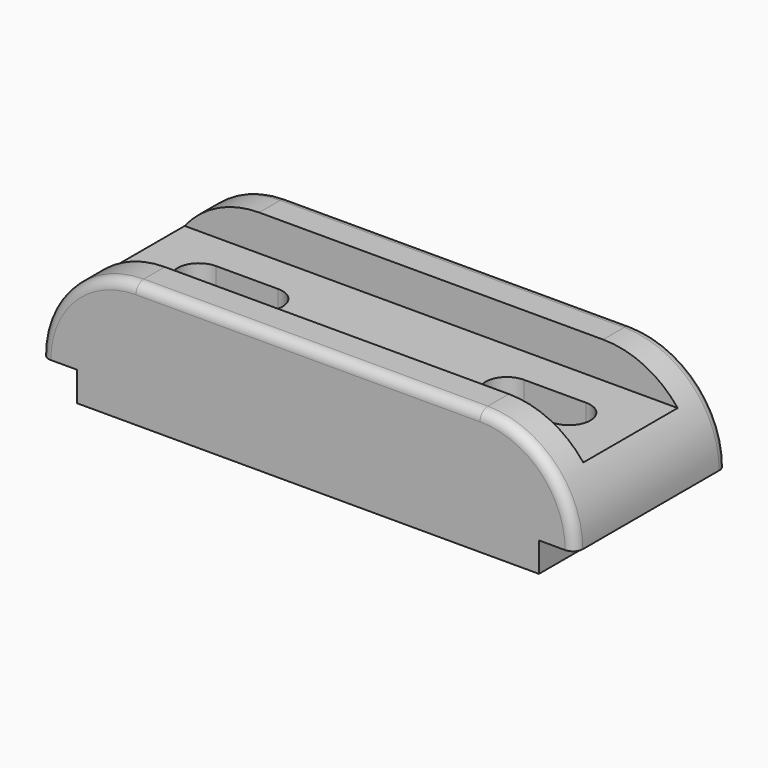
from build123d import *

# Parameters (mm, degrees)
F1_DEPTH = 58
F2_W     = 18
F2_H     = 11
F3_DEPTH = 163.001
F4_R     = 3
F6_DEPTH = 38.001


with BuildPart() as f1:
    # F0 (on Front) → F1 (new body)
    with BuildSketch(Plane.XZ):
        with BuildLine():
            Line((134, 29), (29, 29))
            ThreePointArc((29, 29), (8.493903, 20.506097), (0, 0))
            Line((0, 0), (11, 0))
            Line((11, 0), (11, -9))
            Line((11, -9), (152, -9))
            Line((152, -9), (152, 0))
            Line((152, 0), (163, 0))
            ThreePointArc((163, 0), (154.506097, 20.506097), (134, 29))
        make_face()
    extrude(amount=F1_DEPTH)

    # F2 (on Right) → F3 (cut, through all)
    with BuildSketch(Plane.YZ):
        with Locations((-38, 23.5)):
            Rectangle(F2_W, F2_H)
        with Locations((-20, 23.5)):
            Rectangle(F2_W, F2_H)
    extrude(amount=F3_DEPTH, mode=Mode.SUBTRACT)

    # F4
    f4_edges = [f1.edges().sort_by_distance(p)[0] for p in [
        (8.493903, -58, 20.506097),
        (81.5, -58, 29),
        (154.506097, -58, 20.506097),
        (8.493903, 0, 20.506097),
    ]]
    fillet(f4_edges, radius=F4_R)

    # F5 (on face) → F6 (cut, through all)
    with BuildSketch(Plane(origin=(0, 0, -9), x_dir=(1, 0, 0), z_dir=(0, 0, -1))):
        with BuildLine():
            ThreePointArc((138, 22.5), (142.596194, 24.403806), (144.5, 29))
            ThreePointArc((144.5, 29), (142.596194, 33.596194), (138, 35.5))
            ThreePointArc((138, 35.5), (131.5, 29), (138, 22.5))
        make_face()
        with BuildLine():
            ThreePointArc((138, 22.5), (131.5, 29), (138, 35.5))
            Line((138, 35.5), (119, 35.5))
            ThreePointArc((119, 35.5), (123.596194, 33.596194), (125.5, 29))
            ThreePointArc((125.5, 29), (123.596194, 24.403806), (119, 22.5))
            Line((119, 22.5), (138, 22.5))
        make_face()
        with BuildLine():
            ThreePointArc((125.5, 29), (123.596194, 33.596194), (119, 35.5))
            ThreePointArc((119, 35.5), (112.5, 29), (119, 22.5))
            ThreePointArc((119, 22.5), (123.596194, 24.403806), (125.5, 29))
        make_face()
        with BuildLine():
            ThreePointArc((25, 22.5), (29.596194, 24.403806), (31.5, 29))
            ThreePointArc((31.5, 29), (29.596194, 33.596194), (25, 35.5))
            ThreePointArc((25, 35.5), (18.5, 29), (25, 22.5))
        make_face()
        with BuildLine():
            ThreePointArc((25, 35.5), (29.596194, 33.596194), (31.5, 29))
            ThreePointArc((31.5, 29), (29.596194, 24.403806), (25, 22.5))
            Line((25, 22.5), (44, 22.5))
            ThreePointArc((44, 22.5), (37.5, 29), (44, 35.5))
            Line((44, 35.5), (25, 35.5))
        make_face()
        with BuildLine():
            ThreePointArc((50.5, 29), (48.596194, 33.596194), (44, 35.5))
            ThreePointArc((44, 35.5), (37.5, 29), (44, 22.5))
            ThreePointArc((44, 22.5), (48.596194, 24.403806), (50.5, 29))
        make_face()
    extrude(amount=-F6_DEPTH, mode=Mode.SUBTRACT)


solid = f1.part
